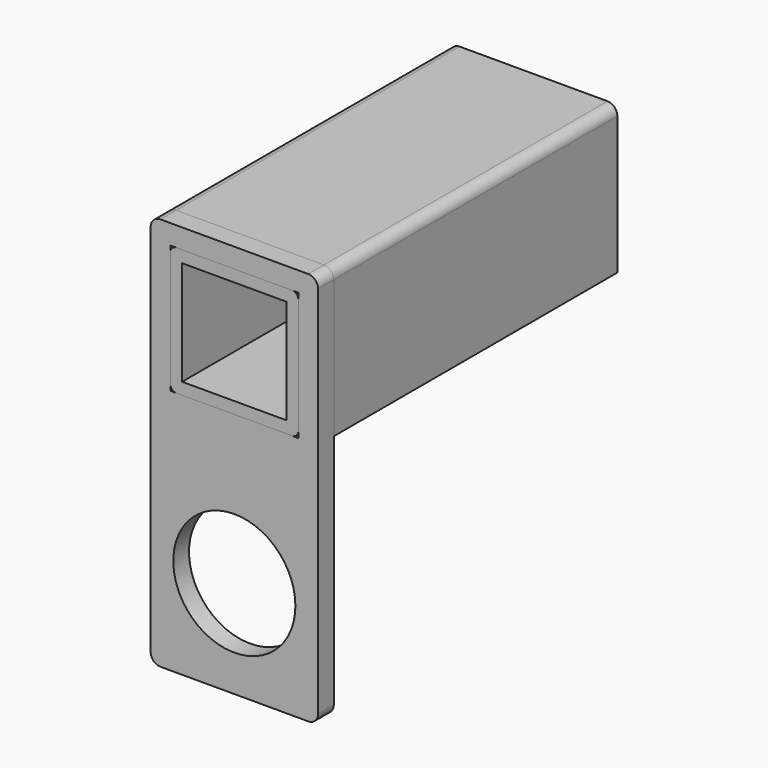
from build123d import *

# Parameters (mm, degrees)
F0_R     = 31
F0_W     = 65
F0_H     = 65
F1_DEPTH = 10
F2_W     = 53
F2_H     = 53
F3_DEPTH = 190
F5_DEPTH = 180
F6_R     = 5
F6_2_R   = 5


with BuildPart() as f1:
    # F0 (on Front) → F1 (new body)
    with BuildSketch(Plane.XZ):
        Polygon((0, 125), (0, 0), (85, 0), (85, 200), (0, 200), align=None)
        with Locations((42.5, 49.5)):
            Circle(F0_R, mode=Mode.SUBTRACT)
        with Locations((42.5, 157.5)):
            Rectangle(F0_W, F0_H, mode=Mode.SUBTRACT)
        Polygon((0, 125), (0, 0), (85, 0), (85, 200), (0, 200), align=None)
        with Locations((42.5, 49.5)):
            Circle(F0_R, mode=Mode.SUBTRACT)
        with Locations((42.5, 157.5)):
            Rectangle(F0_W, F0_H, mode=Mode.SUBTRACT)
    extrude(amount=F1_DEPTH)

    # F6#2
    f6_2_edges = [f1.edges().sort_by_distance(p)[0] for p in [
        (85, -5, 200),
        (0, -5, 200),
        (85, -5, 0),
        (0, -5, 0),
    ]]
    fillet(f6_2_edges, radius=F6_2_R)


with BuildPart() as f3:
    # F2 (on face) → F3 (new body)
    with BuildSketch(Plane.XZ.offset(10)):
        with BuildLine():
            ThreePointArc((10, 128), (10.87868, 125.87868), (13, 125))
            Line((13, 125), (72, 125))
            ThreePointArc((72, 125), (74.12132, 125.87868), (75, 128))
            Line((75, 128), (75, 187))
            ThreePointArc((75, 187), (74.12132, 189.12132), (72, 190))
            Line((72, 190), (13, 190))
            ThreePointArc((13, 190), (10.87868, 189.12132), (10, 187))
            Line((10, 187), (10, 128))
        make_face()
        with Locations((42.5, 157.5)):
            Rectangle(F2_W, F2_H, mode=Mode.SUBTRACT)
    extrude(amount=-F3_DEPTH)


with BuildPart() as f5:
    # F4 (on face) → F5 (new body)
    with BuildSketch(Plane(origin=(0, 0, 0), x_dir=(-1, 0, 0), z_dir=(0, 1, 0))):
        Polygon((-85, 125), (-75, 125), (-75, 190), (-10, 190), (-10, 125), (0, 125), (0, 200), (-85, 200), align=None)
    extrude(amount=F5_DEPTH)

    # F6
    f6_edges = [f5.edges().sort_by_distance(p)[0] for p in [
        (85, 90, 200),
        (0, 90, 200),
    ]]
    fillet(f6_edges, radius=F6_R)


solid = Compound([f1.part, f3.part, f5.part])
